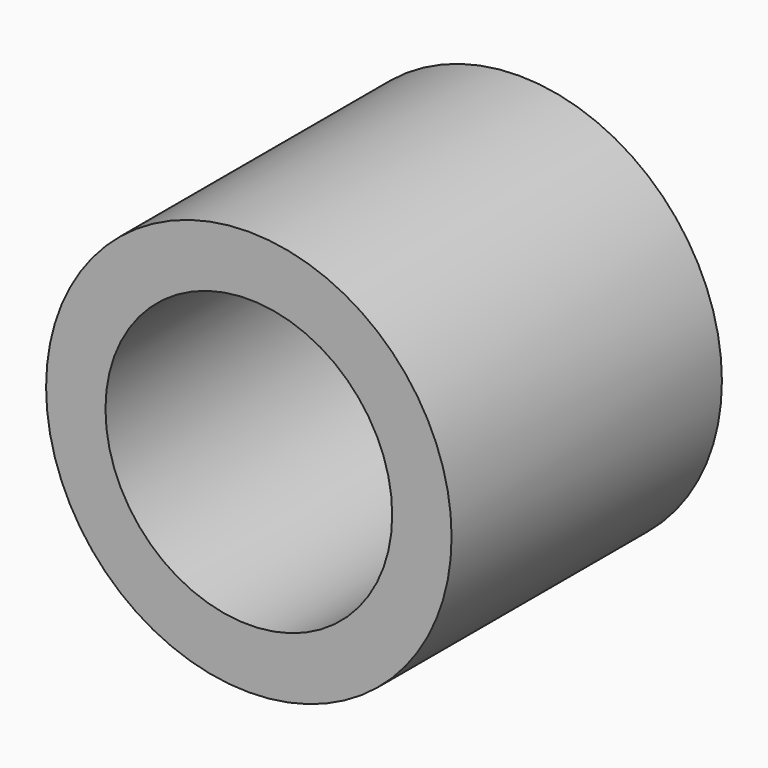
from build123d import *

# Parameters (mm, degrees)
F0_R     = 19.05
F1_DEPTH = 31.75
F2_R     = 1.190625
F3_DEPTH = 6.35
F5_R     = 13.470383
F6_DEPTH = 38.1


with BuildPart() as f1:
    # F0 (on Front) → F1 (new body)
    with BuildSketch(Plane.XZ):
        Circle(F0_R)
    extrude(amount=-F1_DEPTH)

    # F2 (on face) → F3 (join)
    with BuildSketch(Plane(origin=(0, 31.75, 0), x_dir=(-1, 0, 0), z_dir=(0, 1, 0))):
        Circle(F2_R)
    extrude(amount=F3_DEPTH)

    # F5 (on face) → F6 (cut)
    with BuildSketch(Plane(origin=(0, 31.75, 0), x_dir=(-1, 0, 0), z_dir=(0, 1, 0))):
        Circle(F5_R)
    extrude(amount=-F6_DEPTH, mode=Mode.SUBTRACT)


solid = f1.part
